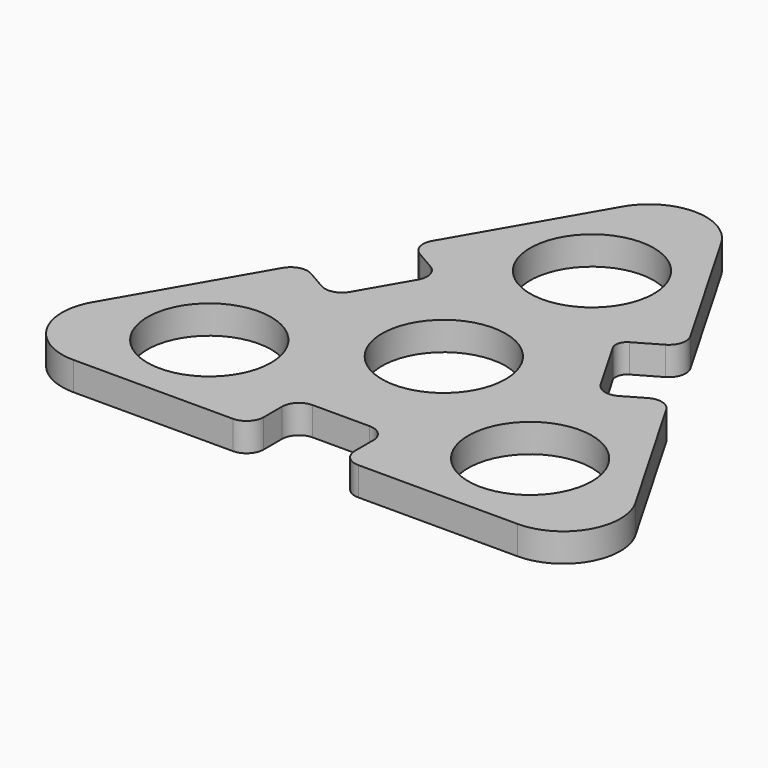
from build123d import *

# Parameters (mm, degrees)
F0_R     = 10.85
F1_DEPTH = 5
F2_R     = 10


with BuildPart() as f1:
    # F0 (on Top) → F1 (new body)
    with BuildSketch(Plane.XY):
        with BuildLine():
            Line((11, -32.5), (42.435245, -32.5))
            Line((42.435245, -32.5), (56.291651, -32.5))
            Line((56.291651, -32.5), (51.528512, -24.25))
            Line((51.528512, -24.25), (33.645826, 6.723721))
            ThreePointArc((33.645826, 6.723721), (31.824207, 8.121498), (29.547749, 7.821797))
            Line((29.547749, 7.821797), (26.083648, 5.821797))
            ThreePointArc((26.083648, 5.821797), (23.807191, 5.522096), (21.985572, 6.919873))
            Line((21.985572, 6.919873), (16.485572, 16.446152))
            ThreePointArc((16.485572, 16.446152), (16.285771, 17.963791), (17.217622, 19.178203))
            Line((17.217622, 19.178203), (21.547749, 21.678203))
            ThreePointArc((21.547749, 21.678203), (22.945527, 23.499822), (22.645826, 25.776279))
            Line((22.645826, 25.776279), (4.76314, 56.75))
            Line((4.76314, 56.75), (0, 65))
            Line((0, 65), (-4.76314, 56.75))
            Line((-4.76314, 56.75), (-22.645826, 25.776279))
            ThreePointArc((-22.645826, 25.776279), (-22.945527, 23.499822), (-21.547749, 21.678203))
            Line((-21.547749, 21.678203), (-18.083648, 19.678203))
            ThreePointArc((-18.083648, 19.678203), (-16.68587, 17.856584), (-16.985572, 15.580127))
            Line((-16.985572, 15.580127), (-21.985572, 6.919873))
            ThreePointArc((-21.985572, 6.919873), (-23.807191, 5.522096), (-26.083648, 5.821797))
            Line((-26.083648, 5.821797), (-29.547749, 7.821797))
            ThreePointArc((-29.547749, 7.821797), (-31.824207, 8.121498), (-33.645826, 6.723721))
            Line((-33.645826, 6.723721), (-51.528512, -24.25))
            Line((-51.528512, -24.25), (-56.291651, -32.5))
            Line((-56.291651, -32.5), (-21.644953, -32.5))
            Line((-21.644953, -32.5), (-11, -32.5))
            ThreePointArc((-11, -32.5), (-8.87868, -31.62132), (-8, -29.5))
            Line((-8, -29.5), (-8, -25.5))
            ThreePointArc((-8, -25.5), (-7.12132, -23.37868), (-5, -22.5))
            Line((-5, -22.5), (5, -22.5))
            ThreePointArc((5, -22.5), (7.12132, -23.37868), (8, -25.5))
            Line((8, -25.5), (8, -29.5))
            ThreePointArc((8, -29.5), (8.87868, -31.62132), (11, -32.5))
        make_face()
        with Locations((-28.145826, -16.25)):
            Circle(F0_R, mode=Mode.SUBTRACT)
        with Locations((28.145826, -16.25)):
            Circle(F0_R, mode=Mode.SUBTRACT)
        Circle(F0_R, mode=Mode.SUBTRACT)
        with Locations((0, 32.5)):
            Circle(F0_R, mode=Mode.SUBTRACT)
    extrude(amount=F1_DEPTH)

    # F2
    f2_edges = [f1.edges().sort_by_distance(p)[0] for p in [
        (56.291651, -32.5, 2.5),
        (0, 65, 2.5),
        (-56.291651, -32.5, 2.5),
    ]]
    fillet(f2_edges, radius=F2_R)


solid = f1.part
